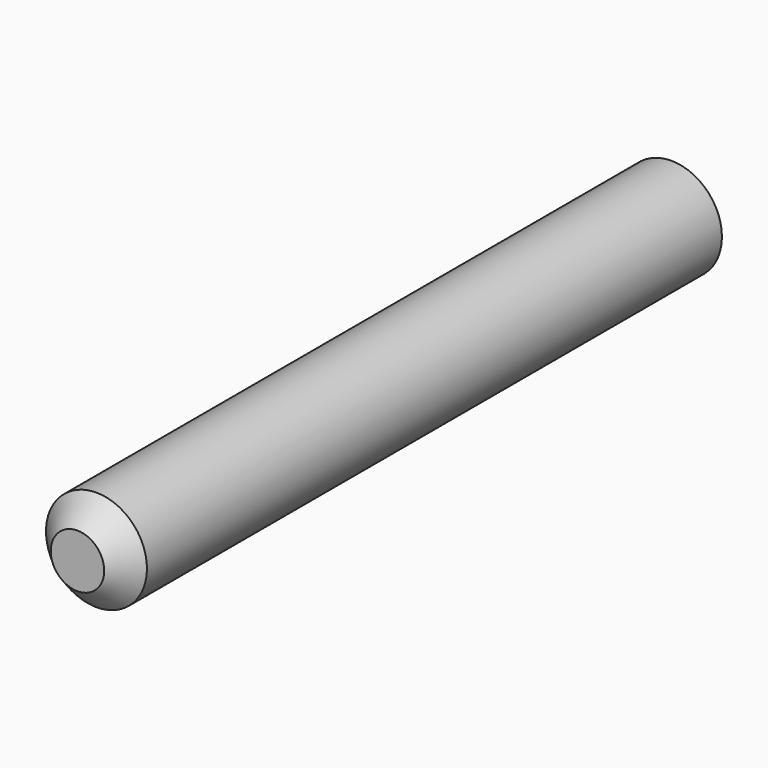
from build123d import *

# Parameters (mm, degrees)
F0_R     = 1.2954
F1_DEPTH = 9.525
F2_SIZE  = 0.6096


with BuildPart() as f1:
    # F0 (on Front) → F1 (new body, symmetric)
    with BuildSketch(Plane.XZ):
        Circle(F0_R)
    extrude(amount=F1_DEPTH, both=True)

    # F2
    f2_edges = [f1.edges().sort_by_distance(p)[0] for p in [
        (-1.2954, -9.525, 0),
    ]]
    chamfer(f2_edges, length=F2_SIZE)


solid = f1.part
